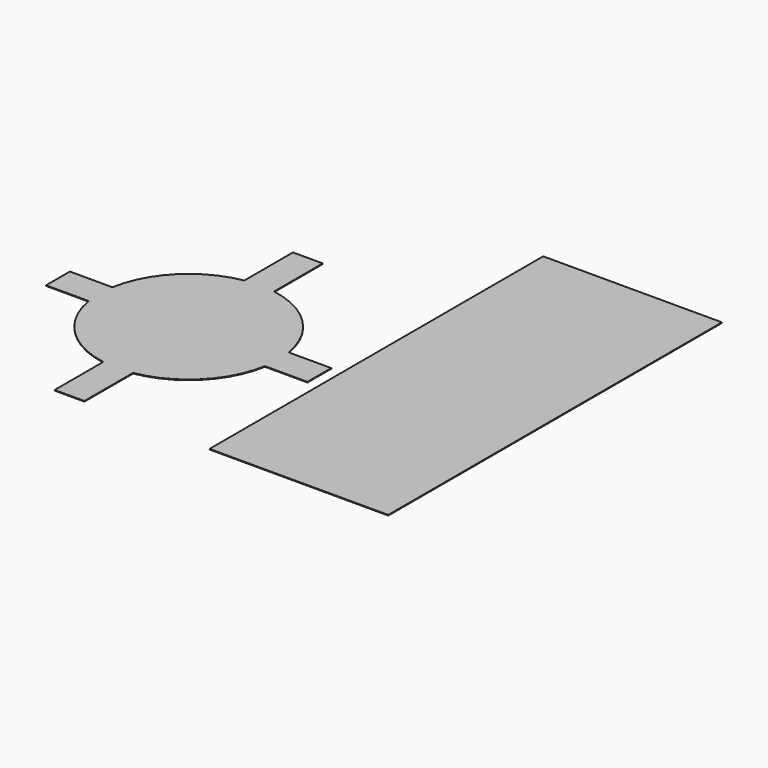
from build123d import *

# Parameters (mm, degrees)
F0_W     = 12.7
F0_H     = 12.7
F1_DEPTH = 0.254
F0_W_2   = 76.2
F0_H_2   = 177.8


with BuildPart() as f1:
    # F0 (on Top) → F1 (new body)
    with BuildSketch(Plane.XY):
        with BuildLine():
            ThreePointArc((-1.8534161267, 3.6644511089), (-1.4539798312, 6.8282905922), (-1.3205227494, 10.0144511089))
            ThreePointArc((-1.3205227494, 10.0144511089), (-1.4539798312, 13.2006116255), (-1.8534161267, 16.3644511089))
            Line((-1.8534161267, 16.3644511089), (-33.0705227494, 16.3644511089))
            Line((-33.0705227494, 16.3644511089), (-33.0705227494, 3.6644511089))
            Line((-33.0705227494, 3.6644511089), (-1.8534161267, 3.6644511089))
        make_face()
        with BuildLine():
            ThreePointArc((-1.8534161267, 16.3644511089), (-1.4539798312, 13.2006116255), (-1.3205227494, 10.0144511089))
            ThreePointArc((-1.3205227494, 10.0144511089), (-1.4539798312, 6.8282905922), (-1.8534161267, 3.6644511089))
            Line((-1.8534161267, 3.6644511089), (16.2962432951, 3.6644511089))
            Line((16.2962432951, 3.6644511089), (16.2962432951, 16.3644511089))
            Line((16.2962432951, 16.3644511089), (-1.8534161267, 16.3644511089))
        make_face()
        with BuildLine():
            Line((-33.0705227494, 16.3644511089), (-1.8534161267, 16.3644511089))
            ThreePointArc((-1.8534161267, 16.3644511089), (-12.4797543862, 36.9552194721), (-33.0705227494, 47.5815577316))
            Line((-33.0705227494, 47.5815577316), (-33.0705227494, 16.3644511089))
        make_face()
        with BuildLine():
            ThreePointArc((-33.0705227494, -27.5526555138), (-12.4797543862, -16.9263172543), (-1.8534161267, 3.6644511089))
            Line((-1.8534161267, 3.6644511089), (-33.0705227494, 3.6644511089))
            Line((-33.0705227494, 3.6644511089), (-33.0705227494, -27.5526555138))
        make_face()
        with BuildLine():
            Line((-33.0705227494, 16.3644511089), (-33.0705227494, 47.5815577316))
            ThreePointArc((-33.0705227494, 47.5815577316), (-39.4205227494, 48.1144511089), (-45.7705227494, 47.5815577316))
            Line((-45.7705227494, 47.5815577316), (-45.7705227494, 16.3644511089))
            Line((-45.7705227494, 16.3644511089), (-33.0705227494, 16.3644511089))
        make_face()
        with BuildLine():
            ThreePointArc((-45.7705227494, 47.5815577316), (-39.4205227494, 48.1144511089), (-33.0705227494, 47.5815577316))
            Line((-33.0705227494, 47.5815577316), (-33.0705227494, 73.5144511089))
            Line((-33.0705227494, 73.5144511089), (-45.7705227494, 73.5144511089))
            Line((-45.7705227494, 73.5144511089), (-45.7705227494, 47.5815577316))
        make_face()
        with BuildLine():
            Line((-33.0705227494, -53.4855488911), (-33.0705227494, -27.5526555138))
            ThreePointArc((-33.0705227494, -27.5526555138), (-39.4205227494, -28.0855488911), (-45.7705227494, -27.5526555138))
            Line((-45.7705227494, -27.5526555138), (-45.7705227494, -53.4855488911))
            Line((-45.7705227494, -53.4855488911), (-33.0705227494, -53.4855488911))
        make_face()
        with BuildLine():
            ThreePointArc((-45.7705227494, -27.5526555138), (-39.4205227494, -28.0855488911), (-33.0705227494, -27.5526555138))
            Line((-33.0705227494, -27.5526555138), (-33.0705227494, 3.6644511089))
            Line((-33.0705227494, 3.6644511089), (-45.7705227494, 3.6644511089))
            Line((-45.7705227494, 3.6644511089), (-45.7705227494, -27.5526555138))
        make_face()
        with BuildLine():
            Line((-45.7705227494, 16.3644511089), (-45.7705227494, 47.5815577316))
            ThreePointArc((-45.7705227494, 47.5815577316), (-66.3612911126, 36.9552194721), (-76.9876293721, 16.3644511089))
            Line((-76.9876293721, 16.3644511089), (-45.7705227494, 16.3644511089))
        make_face()
        with BuildLine():
            Line((-45.7705227494, 3.6644511089), (-45.7705227494, 16.3644511089))
            Line((-45.7705227494, 16.3644511089), (-76.9876293721, 16.3644511089))
            ThreePointArc((-76.9876293721, 16.3644511089), (-77.5205227494, 10.0144511089), (-76.9876293721, 3.6644511089))
            Line((-76.9876293721, 3.6644511089), (-45.7705227494, 3.6644511089))
        make_face()
        with BuildLine():
            ThreePointArc((-76.9876293721, 3.6644511089), (-66.3612911126, -16.9263172543), (-45.7705227494, -27.5526555138))
            Line((-45.7705227494, -27.5526555138), (-45.7705227494, 3.6644511089))
            Line((-45.7705227494, 3.6644511089), (-76.9876293721, 3.6644511089))
        make_face()
        with BuildLine():
            ThreePointArc((-76.9876293721, 3.6644511089), (-77.5205227494, 10.0144511089), (-76.9876293721, 16.3644511089))
            Line((-76.9876293721, 16.3644511089), (-95.1372887939, 16.3644511089))
            Line((-95.1372887939, 16.3644511089), (-95.1372887939, 3.6644511089))
            Line((-95.1372887939, 3.6644511089), (-76.9876293721, 3.6644511089))
        make_face()
        with Locations((-39.4205227494, 10.0144511089)):
            Rectangle(F0_W, F0_H)
    extrude(amount=F1_DEPTH)


with BuildPart() as f1b:
    # F0 (on Top) → F1, piece 2 (new body)
    with BuildSketch(Plane.XY):
        with Locations((59.130344069, 34.4578029156)):
            Rectangle(F0_W_2, F0_H_2)
    extrude(amount=F1_DEPTH)


solid = Compound([f1.part, f1b.part])
